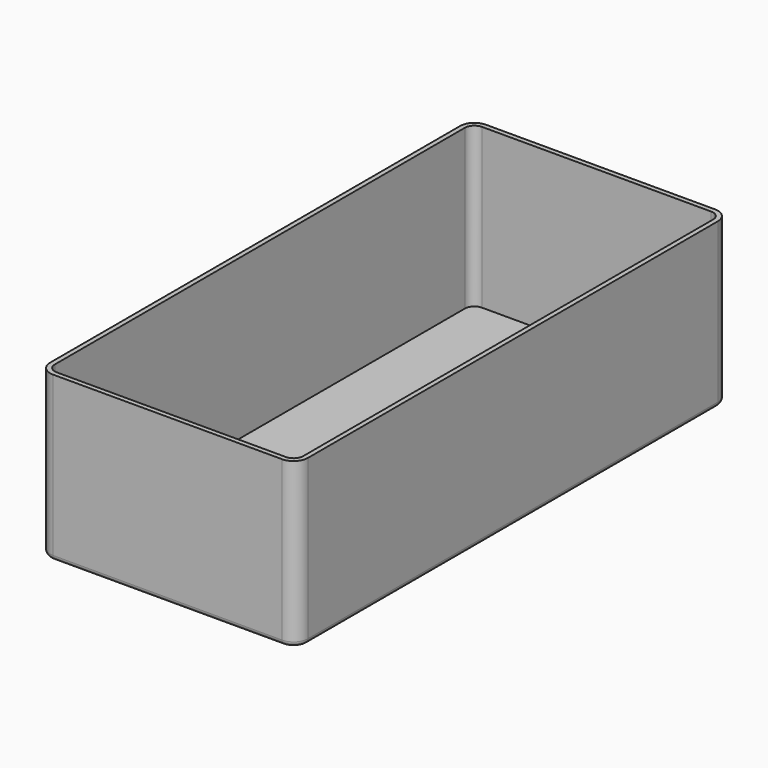
from build123d import *

# Parameters (mm, degrees)
PAD_DEPTH   = 50
THICKNESS_T = 1.5


with BuildPart() as part:
    # Sketch → Pad (new body)
    with BuildSketch(Plane.XY):
        with BuildLine():
            ThreePointArc((3, 0), (0.87868, -0.87868), (0, -3))
            Line((0, -164), (0, -3))
            ThreePointArc((0, -164), (0.87868, -166.12132), (3, -167))
            Line((75, -167), (3, -167))
            ThreePointArc((75, -167), (77.12132, -166.12132), (78, -164))
            Line((78, -3), (78, -164))
            ThreePointArc((78, -3), (77.12132, -0.87868), (75, 0))
            Line((3, 0), (75, 0))
        make_face()
    extrude(amount=PAD_DEPTH)

    # Thickness
    thickness_openings = [part.faces().sort_by_distance(p)[0] for p in [
        (39, -83.5, 50),
    ]]
    offset(amount=THICKNESS_T, openings=thickness_openings)


solid = part.part
